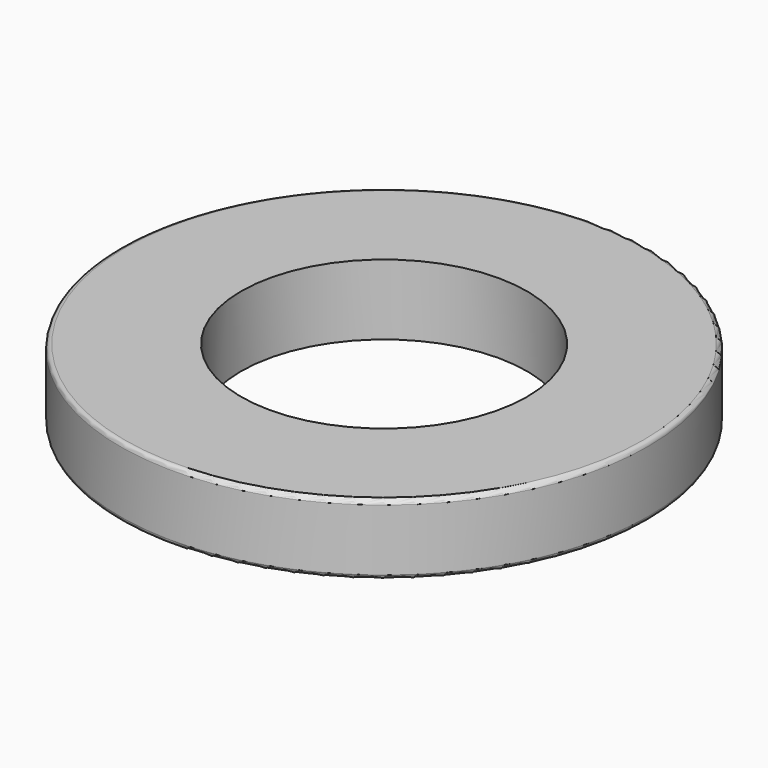
from build123d import *

# Parameters (mm, degrees)
F0_R     = 6
F0_R_2   = 3.25
F1_DEPTH = 1.6
F2_R     = 0.1


with BuildPart() as f1:
    # F0 (on Top) → F1 (new body)
    with BuildSketch(Plane.XY):
        Circle(F0_R)
        Circle(F0_R_2, mode=Mode.SUBTRACT)
    extrude(amount=-F1_DEPTH)

    # F2
    f2_edges = [f1.edges().sort_by_distance(p)[0] for p in [
        (-6, 0, 0),
        (-6, 0, -1.6),
    ]]
    fillet(f2_edges, radius=F2_R)


solid = f1.part
